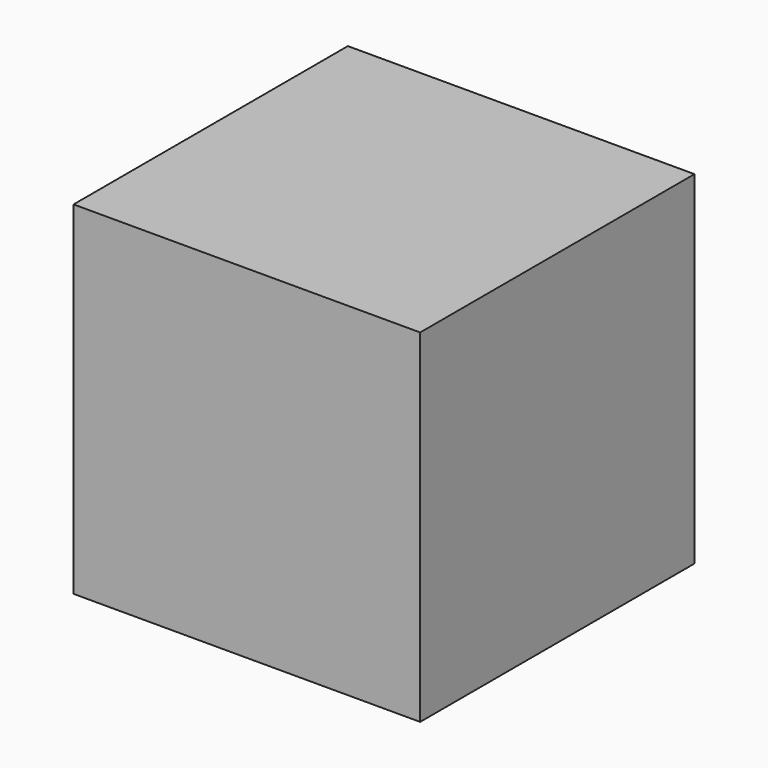
from build123d import *

# Parameters (mm, degrees)
F0_W     = 100
F0_H     = 100
F1_DEPTH = 101.092
F3_DEPTH = 57.15


with BuildPart() as f1:
    # F0 (on Right) → F1 (new body)
    with BuildSketch(Plane.YZ):
        with Locations((81.659264, -4.783544)):
            Rectangle(F0_W, F0_H)
    extrude(amount=F1_DEPTH)

    # F2 (on face) → F3 (cut)
    with BuildSketch(Plane(origin=(0, 131.659264, 0), x_dir=(-1, 0, 0), z_dir=(0, 1, 0))):
        Polygon((-71.181767, 16.83623), (-73.702417, -23.194689), (-64.422022, -23.779053), (-63.540065, -9.772525), (-31.937613, -11.762455), (-31.626889, -1.973853), (-62.974007, 0), (-61.950471, 16.254957), align=None)
    extrude(amount=-F3_DEPTH, mode=Mode.SUBTRACT)


solid = f1.part
